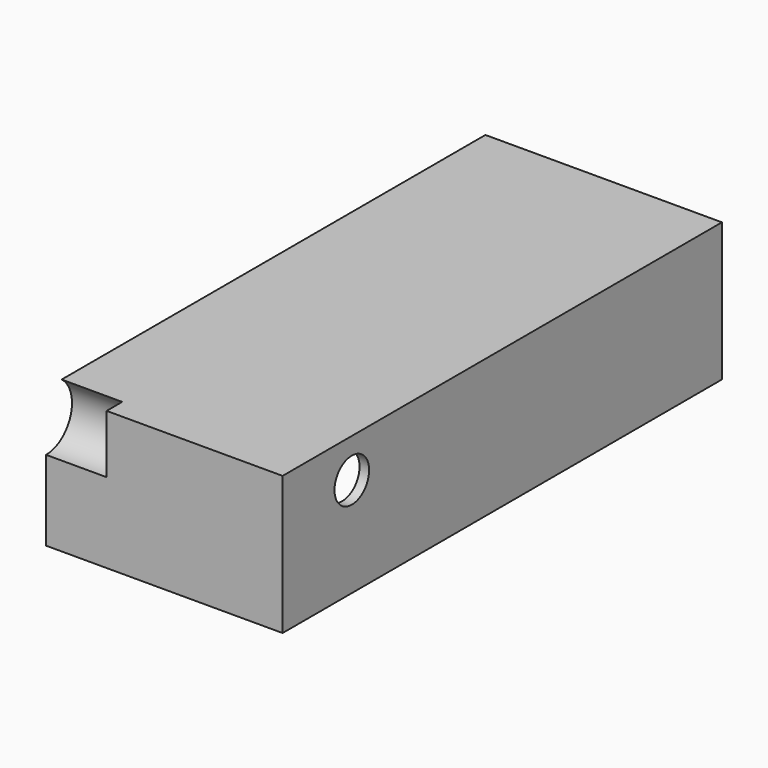
from build123d import *

# Parameters (mm, degrees)
SKETCH_W        = 54.7
SKETCH_H        = 127
PAD_DEPTH       = 32
SKETCH001_W     = 49.98
SKETCH001_H     = 121.98
POCKET_DEPTH    = 31.3
PAD001_DEPTH    = 16
SKETCH002_R     = 7.5
POCKET001_DEPTH = 14
SKETCH004_R     = 5
POCKET002_DEPTH = 5


with BuildPart() as part:
    # Sketch → Pad (new body)
    with BuildSketch(Plane.XY):
        with Locations((27.35, 63.5)):
            Rectangle(SKETCH_W, SKETCH_H)
    extrude(amount=PAD_DEPTH)

    # Sketch001 → Pocket (cut)
    with BuildSketch(Plane.XY):
        with Locations((27.5, 63.5)):
            Rectangle(SKETCH001_W, SKETCH001_H)
    extrude(amount=POCKET_DEPTH, mode=Mode.SUBTRACT)

    # Sketch003 → Pad001 (join)
    with BuildSketch(Plane.YZ):
        with BuildLine():
            ThreePointArc((0, 17), (8.215838, 22.325765), (6.708204, 32))
            Line((0, 32), (6.708204, 32))
            Line((0, 32), (0, 17))
        make_face()
    extrude(amount=PAD001_DEPTH)

    # Sketch002 → Pocket001 (cut)
    with BuildSketch(Plane.YZ):
        with Locations((0, 26)):
            Circle(SKETCH002_R)
    extrude(amount=POCKET001_DEPTH, mode=Mode.SUBTRACT)

    # Sketch004 (on DatumPlane) → Pocket002 (cut)
    with BuildSketch(Plane.YZ.offset(55)):
        with Locations((20.005968, 23)):
            Circle(SKETCH004_R)
    extrude(amount=-POCKET002_DEPTH, mode=Mode.SUBTRACT)


solid = part.part
